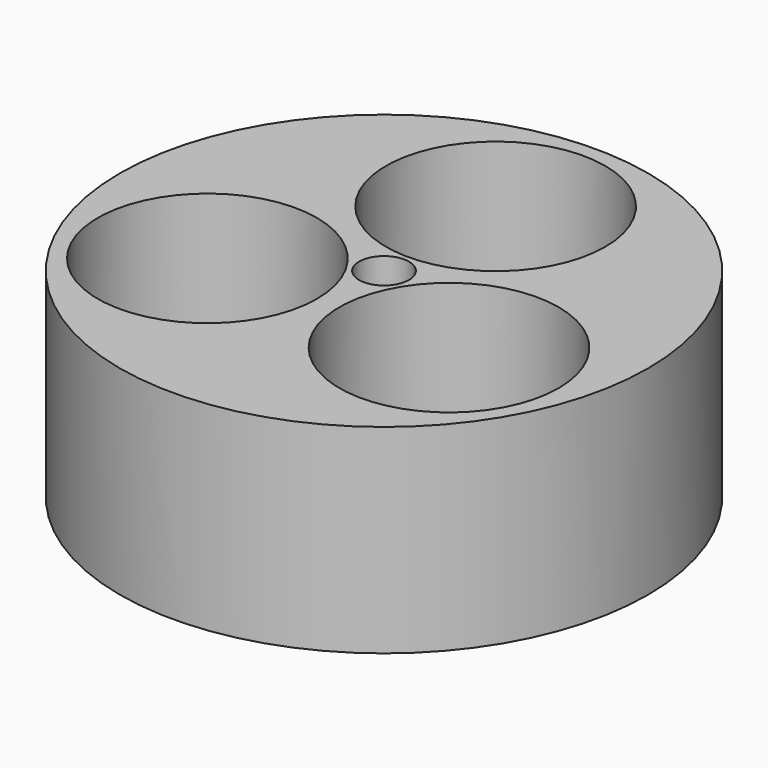
from build123d import *

# Parameters (mm, degrees)
F0_R     = 168.275
F0_R_2   = 69.85
F0_R_3   = 15.875
F1_DEPTH = 127


with BuildPart() as f1:
    # F0 (on Top) → F1 (new body)
    with BuildSketch(Plane.XY):
        with Locations((0, -4.255948)):
            Circle(F0_R)
        with Locations((-76.989658, -48.705948)):
            Circle(F0_R_2, mode=Mode.SUBTRACT)
        with Locations((76.989658, -48.705948)):
            Circle(F0_R_2, mode=Mode.SUBTRACT)
        with Locations((0, -4.255948)):
            Circle(F0_R_3, mode=Mode.SUBTRACT)
        with Locations((0, 84.644052)):
            Circle(F0_R_2, mode=Mode.SUBTRACT)
    extrude(amount=F1_DEPTH)


solid = f1.part
